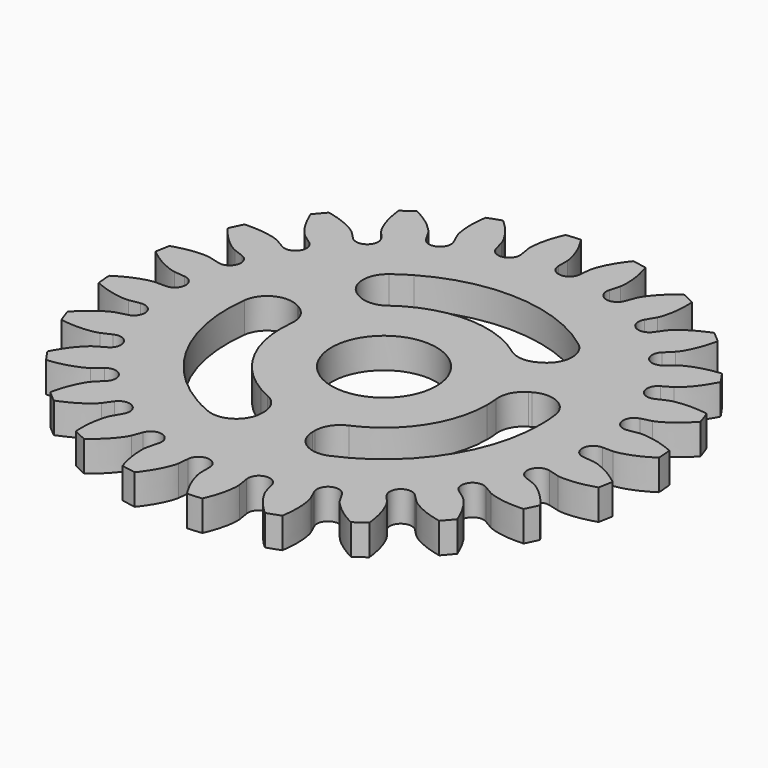
from build123d import *

# Parameters (mm, degrees)
F5_DEPTH  = 6
F7_DEPTH  = 6
F4_R      = 26
F8_DEPTH  = 3
F9_COUNT  = 24
F12_DEPTH = 25
F13_DEPTH = 6
F14_R     = 2.5
F15_COUNT = 3


with BuildPart() as f5:
    # F3 (on Top) → F5 (new body)
    with BuildSketch(Plane.XY):
        with BuildLine():
            ThreePointArc((25.6916888552, -3.9921327343), (25.9228076241, -2.0020102104), (26, 0))
            ThreePointArc((26, 0), (25.9908483995, 0.689782194), (25.9634000404, 1.3790788025))
            add(Edge.make_bspline(
                [(22.5526228989, 0), (22.5934977753, 0.0016422654), (22.5735318645, 4.81058e-05), (22.7356071882, 0.0129888596), (22.9208638542, 0.0428818947), (23.2066002384, 0.1029955489), (23.5603331969, 0.2020013006), (23.9833526427, 0.3464110903), (24.4889330953, 0.5581357968), (24.9834303663, 0.7900583087), (25.7657350923, 1.2431943226), (25.6607478059, 1.1823823156), (25.9634000404, 1.3790788025)],
                knots=[0, 0, 0, 0, 0.0334556496, 0.0914012367, 0.1662085339, 0.2547216779, 0.3550861289, 0.4660431931, 0.5866662317, 0.7162361552, 0.8541738686, 0.9698408048, 0.9698408048, 0.9698408048, 0.9698408048], degree=3))
            Line((22.5526228989, 0), (21.5, 0))
            ThreePointArc((21.5, 0), (21.47254342, -1.086222388), (21.3902438069, -2.1696704548))
            Line((21.3902438069, -2.1696704548), (22.4374931298, -2.2758957945))
            add(Edge.make_bspline(
                [(22.4374931298, -2.2758957945), (22.4779936134, -2.2816545605), (22.4582905018, -2.278053681), (22.6182325259, -2.3072841889), (22.7995268152, -2.3557197807), (23.0777381688, -2.4443616184), (23.419674186, -2.5785588796), (23.825961043, -2.7649204332), (24.3075943596, -3.0265849012), (24.7761628138, -3.3072256079), (25.5087457441, -3.836994597), (25.4104312492, -3.7658982495), (25.6916888552, -3.9921327343)],
                knots=[0, 0, 0, 0, 0.0334556496, 0.0914012367, 0.1662085339, 0.2547216779, 0.3550861289, 0.4660431931, 0.5866662317, 0.7162361552, 0.8541738686, 0.9698408048, 0.9698408048, 0.9698408048, 0.9698408048], degree=3))
        make_face()
    extrude(amount=F5_DEPTH)

    # F6 (on face) → F7 (join)
    with BuildSketch(Plane(origin=(0, 0, 0), x_dir=(1, 0, 0), z_dir=(0, 0, -1))):
        with BuildLine():
            ThreePointArc((21.5, 0), (21.47254342, 1.086222388), (21.3902438069, 2.1696704548))
            ThreePointArc((21.3902438069, 2.1696704548), (20.3873616794, 1.0313267625), (21.5, 0))
        make_face()
    extrude(amount=-F7_DEPTH)


with BuildPart() as f8:
    # F4 (on Top) → F8 (new body)
    with BuildSketch(Plane.XY):
        Circle(F4_R)
    extrude(amount=F8_DEPTH)


with BuildPart() as f9_1:
    # F9: instance of F5
    add(f5.part.rotate(Axis((0, 0, 3), (0, 0, 1)), 1 * 360 / F9_COUNT))


with BuildPart() as f9_2:
    # F9: instance of F5
    add(f5.part.rotate(Axis((0, 0, 3), (0, 0, 1)), 2 * 360 / F9_COUNT))


with BuildPart() as f9_3:
    # F9: instance of F5
    add(f5.part.rotate(Axis((0, 0, 3), (0, 0, 1)), 3 * 360 / F9_COUNT))


with BuildPart() as f9_4:
    # F9: instance of F5
    add(f5.part.rotate(Axis((0, 0, 3), (0, 0, 1)), 4 * 360 / F9_COUNT))


with BuildPart() as f9_5:
    # F9: instance of F5
    add(f5.part.rotate(Axis((0, 0, 3), (0, 0, 1)), 5 * 360 / F9_COUNT))


with BuildPart() as f9_6:
    # F9: instance of F5
    add(f5.part.rotate(Axis((0, 0, 3), (0, 0, 1)), 6 * 360 / F9_COUNT))


with BuildPart() as f9_7:
    # F9: instance of F5
    add(f5.part.rotate(Axis((0, 0, 3), (0, 0, 1)), 7 * 360 / F9_COUNT))


with BuildPart() as f9_8:
    # F9: instance of F5
    add(f5.part.rotate(Axis((0, 0, 3), (0, 0, 1)), 8 * 360 / F9_COUNT))


with BuildPart() as f9_9:
    # F9: instance of F5
    add(f5.part.rotate(Axis((0, 0, 3), (0, 0, 1)), 9 * 360 / F9_COUNT))


with BuildPart() as f9_10:
    # F9: instance of F5
    add(f5.part.rotate(Axis((0, 0, 3), (0, 0, 1)), 10 * 360 / F9_COUNT))


with BuildPart() as f9_11:
    # F9: instance of F5
    add(f5.part.rotate(Axis((0, 0, 3), (0, 0, 1)), 11 * 360 / F9_COUNT))


with BuildPart() as f9_12:
    # F9: instance of F5
    add(f5.part.rotate(Axis((0, 0, 3), (0, 0, 1)), 12 * 360 / F9_COUNT))


with BuildPart() as f9_13:
    # F9: instance of F5
    add(f5.part.rotate(Axis((0, 0, 3), (0, 0, 1)), 13 * 360 / F9_COUNT))


with BuildPart() as f9_14:
    # F9: instance of F5
    add(f5.part.rotate(Axis((0, 0, 3), (0, 0, 1)), 14 * 360 / F9_COUNT))


with BuildPart() as f9_15:
    # F9: instance of F5
    add(f5.part.rotate(Axis((0, 0, 3), (0, 0, 1)), 15 * 360 / F9_COUNT))


with BuildPart() as f9_16:
    # F9: instance of F5
    add(f5.part.rotate(Axis((0, 0, 3), (0, 0, 1)), 16 * 360 / F9_COUNT))


with BuildPart() as f9_17:
    # F9: instance of F5
    add(f5.part.rotate(Axis((0, 0, 3), (0, 0, 1)), 17 * 360 / F9_COUNT))


with BuildPart() as f9_18:
    # F9: instance of F5
    add(f5.part.rotate(Axis((0, 0, 3), (0, 0, 1)), 18 * 360 / F9_COUNT))


with BuildPart() as f9_19:
    # F9: instance of F5
    add(f5.part.rotate(Axis((0, 0, 3), (0, 0, 1)), 19 * 360 / F9_COUNT))


with BuildPart() as f9_20:
    # F9: instance of F5
    add(f5.part.rotate(Axis((0, 0, 3), (0, 0, 1)), 20 * 360 / F9_COUNT))


with BuildPart() as f9_21:
    # F9: instance of F5
    add(f5.part.rotate(Axis((0, 0, 3), (0, 0, 1)), 21 * 360 / F9_COUNT))


with BuildPart() as f9_22:
    # F9: instance of F5
    add(f5.part.rotate(Axis((0, 0, 3), (0, 0, 1)), 22 * 360 / F9_COUNT))


with BuildPart() as f9_23:
    # F9: instance of F5
    add(f5.part.rotate(Axis((0, 0, 3), (0, 0, 1)), 23 * 360 / F9_COUNT))


with BuildPart() as f8_1:
    add(f8.part)

    # F10: cut F9_5, F9_6, F9_7, F9_8, F9_9, F9_10, F9_11, F9_12, F9_13, F9_14, F9_15, F9_16, F9_17, F9_18, F9_19, F9_20, F9_21, F9_22, F9_23, F5, F9_1, F9_2, F9_3, F9_4
    add(f9_5.part, mode=Mode.SUBTRACT)
    add(f9_6.part, mode=Mode.SUBTRACT)
    add(f9_7.part, mode=Mode.SUBTRACT)
    add(f9_8.part, mode=Mode.SUBTRACT)
    add(f9_9.part, mode=Mode.SUBTRACT)
    add(f9_10.part, mode=Mode.SUBTRACT)
    add(f9_11.part, mode=Mode.SUBTRACT)
    add(f9_12.part, mode=Mode.SUBTRACT)
    add(f9_13.part, mode=Mode.SUBTRACT)
    add(f9_14.part, mode=Mode.SUBTRACT)
    add(f9_15.part, mode=Mode.SUBTRACT)
    add(f9_16.part, mode=Mode.SUBTRACT)
    add(f9_17.part, mode=Mode.SUBTRACT)
    add(f9_18.part, mode=Mode.SUBTRACT)
    add(f9_19.part, mode=Mode.SUBTRACT)
    add(f9_20.part, mode=Mode.SUBTRACT)
    add(f9_21.part, mode=Mode.SUBTRACT)
    add(f9_22.part, mode=Mode.SUBTRACT)
    add(f9_23.part, mode=Mode.SUBTRACT)
    add(f5.part, mode=Mode.SUBTRACT)
    add(f9_1.part, mode=Mode.SUBTRACT)
    add(f9_2.part, mode=Mode.SUBTRACT)
    add(f9_3.part, mode=Mode.SUBTRACT)
    add(f9_4.part, mode=Mode.SUBTRACT)

    # F11 (on face) → F12 (cut)
    with BuildSketch(Plane(origin=(0, 0, 0), x_dir=(1, 0, 0), z_dir=(0, 0, -1))):
        with BuildLine():
            Line((2.5, 1.443375673), (2.5, 4.513219515))
            ThreePointArc((2.5, 4.513219515), (-4.4681498177, -2.5796875), (5.1585627529, -0.091546248))
            Line((5.1585627529, -0.091546248), (2.5, 1.443375673))
        make_face()
        with BuildLine():
            ThreePointArc((5.1585627529, -0.091546248), (5.1591719342, -0.0457749257), (5.159375, 0))
            ThreePointArc((5.159375, 0), (4.4450864947, 2.6192282156), (2.5, 4.513219515))
            Line((2.5, 4.513219515), (2.5, 1.443375673))
            Line((2.5, 1.443375673), (5.1585627529, -0.091546248))
        make_face()
    extrude(amount=-F12_DEPTH, mode=Mode.SUBTRACT)


with BuildPart() as f13:
    # F11 (on face) → F13 (new body)
    with BuildSketch(Plane(origin=(0, 0, 0), x_dir=(1, 0, 0), z_dir=(0, 0, -1))):
        with BuildLine():
            Line((2.5, 15.2093341268), (2.5, 9.8469741744))
            ThreePointArc((2.5, 9.8469741744), (8.0190815525, 6.2375661476), (10.159375, 0))
            ThreePointArc((10.159375, 0), (10.0635114133, -1.3923499653), (9.7777297854, -2.7584235777))
            Line((9.7777297854, -2.7584235777), (14.4216697284, -5.4396035539))
            ThreePointArc((14.4216697284, -5.4396035539), (15.1634635041, -2.7646372529), (15.4134306557, 0))
            ThreePointArc((15.4134306557, 0), (11.7496259774, 9.9759778453), (2.5, 15.2093341268))
        make_face()
    extrude(amount=-F13_DEPTH)

    # F14
    f14_edges = [f13.edges().sort_by_distance(p)[0] for p in [
        (2.5, -15.209334, 3),
        (2.5, -9.846974, 3),
        (9.77773, 2.758424, 3),
        (14.42167, 5.439604, 3),
    ]]
    fillet(f14_edges, radius=F14_R)


with BuildPart() as f15_1:
    # F15: instance of F13
    add(f13.part.rotate(Axis((0, 0, 3), (0, 0, -1)), 1 * 360 / F15_COUNT))


with BuildPart() as f15_2:
    # F15: instance of F13
    add(f13.part.rotate(Axis((0, 0, 3), (0, 0, -1)), 2 * 360 / F15_COUNT))


with BuildPart() as f8_2:
    add(f8_1.part)

    # F16: cut F15_2, F15_1, F13
    add(f15_2.part, mode=Mode.SUBTRACT)
    add(f15_1.part, mode=Mode.SUBTRACT)
    add(f13.part, mode=Mode.SUBTRACT)


solid = f8_2.part
